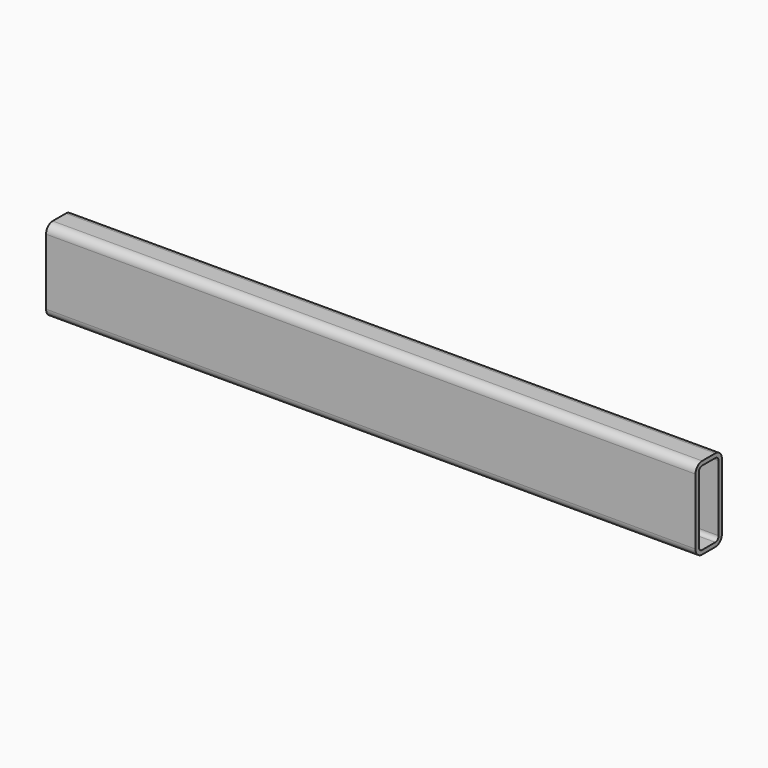
from build123d import *

# Parameters (mm, degrees)
F3_DEPTH = 500


with BuildPart() as f3:
    # F2 (on Right) → F3 (new body, symmetric)
    with BuildSketch(Plane.YZ):
        with BuildLine():
            ThreePointArc((25.4, 50.8), (21.680256, 59.780256), (12.7, 63.5))
            Line((12.7, 63.5), (-12.7, 63.5))
            ThreePointArc((-12.7, 63.5), (-21.680256, 59.780256), (-25.4, 50.8))
            Line((-25.4, 50.8), (-25.4, -50.8))
            ThreePointArc((-25.4, -50.8), (-21.680256, -59.780256), (-12.7, -63.5))
            Line((-12.7, -63.5), (12.7, -63.5))
            ThreePointArc((12.7, -63.5), (21.680256, -59.780256), (25.4, -50.8))
            Line((25.4, -50.8), (25.4, 50.8))
        make_face()
        with BuildLine():
            Line((-12.7, 57.15), (12.7, 57.15))
            ThreePointArc((12.7, 57.15), (17.190128, 55.290128), (19.05, 50.8))
            Line((19.05, 50.8), (19.05, -50.8))
            ThreePointArc((19.05, -50.8), (17.190128, -55.290128), (12.7, -57.15))
            Line((12.7, -57.15), (-12.7, -57.15))
            ThreePointArc((-12.7, -57.15), (-17.190128, -55.290128), (-19.05, -50.8))
            Line((-19.05, -50.8), (-19.05, 50.8))
            ThreePointArc((-19.05, 50.8), (-17.190128, 55.290128), (-12.7, 57.15))
        make_face(mode=Mode.SUBTRACT)
    extrude(amount=F3_DEPTH, both=True)


with BuildPart() as f0_1:
    # F0: copy of F3
    add(f3.part)


solid = f3.part
